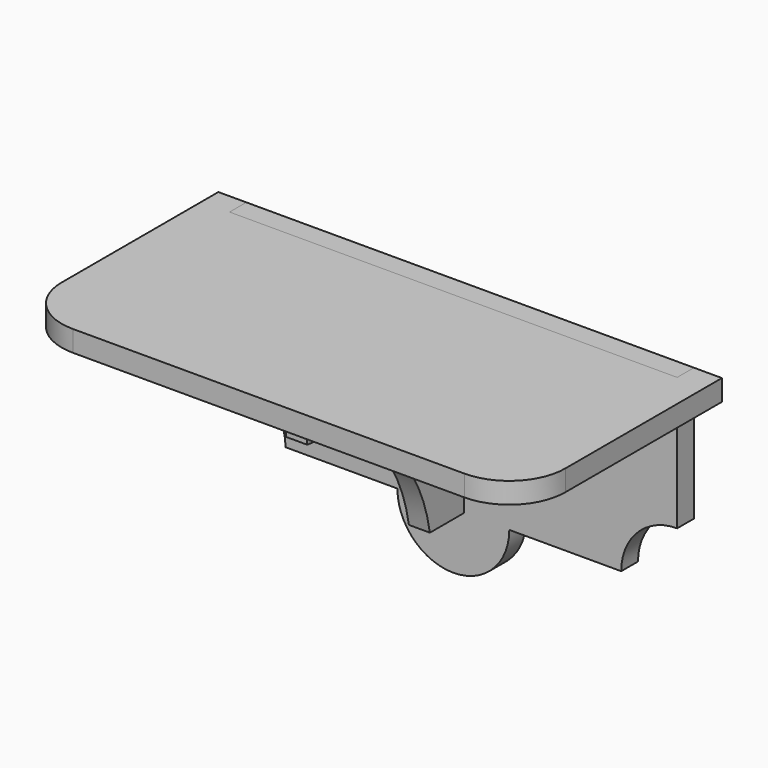
from build123d import *

# Parameters (mm, degrees)
F1_DEPTH = 9.525
F3_DEPTH = 9.525
F4_W     = 203.2
F4_H     = 9.525
F5_DEPTH = 9.525
F6_W     = 9.525
F6_H     = 76.2
F7_DEPTH = 88.9
F9_DEPTH = 19.304


with BuildPart() as f1:
    # F0 (on Front) → F1 (new body)
    with BuildSketch(Plane.XZ):
        with BuildLine():
            Line((117.194766, 35.670682), (-86.005234, 35.670682))
            Line((-86.005234, 35.670682), (-86.005234, -15.129318))
            ThreePointArc((-86.005234, -15.129318), (-68.044722, -22.568806), (-60.605234, -40.529318))
            Line((-60.605234, -40.529318), (-9.805234, -40.529318))
            ThreePointArc((-9.805234, -40.529318), (15.594766, -65.929318), (40.994766, -40.529318))
            Line((40.994766, -40.529318), (91.794766, -40.529318))
            ThreePointArc((91.794766, -40.529318), (99.234253, -22.568806), (117.194766, -15.129318))
            Line((117.194766, -15.129318), (117.194766, 35.670682))
        make_face()
    extrude(amount=-F1_DEPTH)


with BuildPart() as f3:
    # F2 (on face) → F3 (new body)
    with BuildSketch(Plane.XY.offset(35.670682)):
        with BuildLine():
            Line((-86.005234, 9.525), (-98.705234, 9.525))
            Line((-98.705234, 9.525), (-98.705234, -79.375))
            ThreePointArc((-98.705234, -79.375), (-91.265747, -97.335512), (-73.305234, -104.775))
            Line((-73.305234, -104.775), (104.494766, -104.775))
            ThreePointArc((104.494766, -104.775), (122.455278, -97.335512), (129.894766, -79.375))
            Line((129.894766, -79.375), (129.894766, 9.525))
            Line((129.894766, 9.525), (117.194766, 9.525))
            Line((117.194766, 9.525), (117.194766, 0))
            Line((117.194766, 0), (-86.005234, 0))
            Line((-86.005234, 0), (-86.005234, 9.525))
        make_face()
    extrude(amount=F3_DEPTH)


with BuildPart() as f5:
    # F4 (on face) → F5 (new body)
    with BuildSketch(Plane.XY.offset(35.670682)):
        with Locations((15.594766, 4.7625)):
            Rectangle(F4_W, F4_H)
    extrude(amount=F5_DEPTH)


with BuildPart() as f7:
    # F6 (on face) → F7 (new body)
    with BuildSketch(Plane.XZ):
        with Locations((15.594766, -2.429318)):
            Rectangle(F6_W, F6_H)
    extrude(amount=F7_DEPTH)

    # F8 (on face) → F9 (cut)
    with BuildSketch(Plane.YZ.offset(20.357266)):
        with BuildLine():
            Line((-88.9, -40.529318), (-19.259443, -40.529318))
            ThreePointArc((-19.259443, -40.529318), (-43.093247, 3.26067), (-88.9, 22.941996))
            Line((-88.9, 22.941996), (-88.9, -40.529318))
        make_face()
        with BuildLine():
            ThreePointArc((-88.9, 22.941996), (-150.222354, -104.949952), (-18.222476, -53.057624))
            ThreePointArc((-18.222476, -53.057624), (-18.482161, -46.77205), (-19.259443, -40.529318))
            Line((-19.259443, -40.529318), (-88.9, -40.529318))
            Line((-88.9, -40.529318), (-88.9, 22.941996))
        make_face()
    extrude(amount=-F9_DEPTH, mode=Mode.SUBTRACT)


solid = Compound([f1.part, f3.part, f5.part, f7.part])
